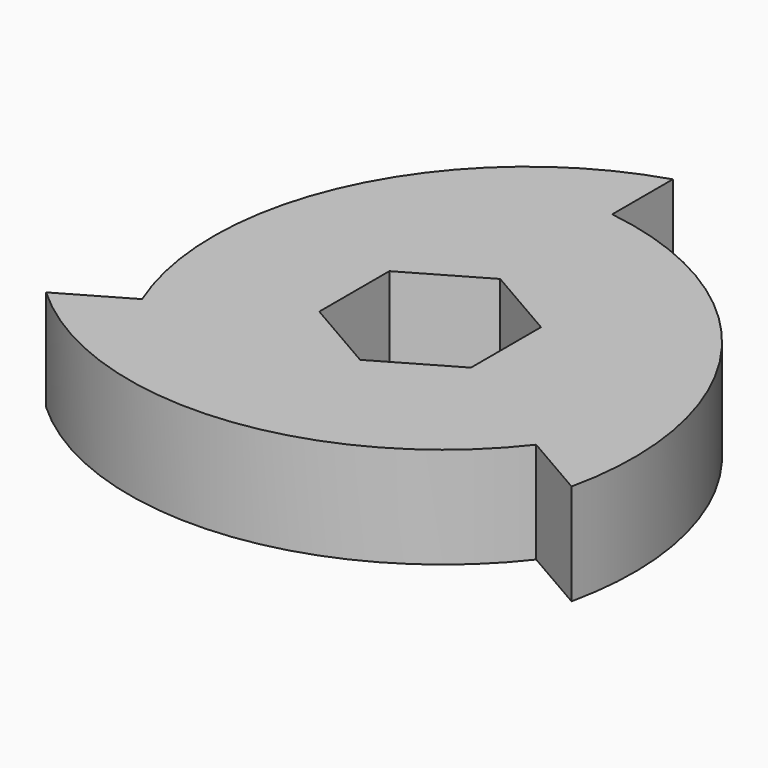
from build123d import *

# Parameters (mm, degrees)
F1_DEPTH = 12.7


with BuildPart() as f1:
    # F0 (on Top) → F1 (new body)
    with BuildSketch(Plane.XY):
        with BuildLine():
            Line((0, 28.575), (0, 38.1))
            ThreePointArc((0, 38.1), (-23.865153, 17.334725), (-24.746676, -14.2875))
            Line((-24.746676, -14.2875), (-32.995568, -19.05))
            ThreePointArc((-32.995568, -19.05), (-3.079736, -29.335191), (24.746676, -14.2875))
            Line((24.746676, -14.2875), (32.995568, -19.05))
            ThreePointArc((32.995568, -19.05), (26.944888, 12.000466), (0, 28.575))
        make_face()
        Polygon((0, 10.998523), (9.525, 5.499261), (9.525, -5.499261), (0, -10.998523), (-9.525, -5.499261), (-9.525, 5.499261), align=None, mode=Mode.SUBTRACT)
    extrude(amount=F1_DEPTH)


solid = f1.part
